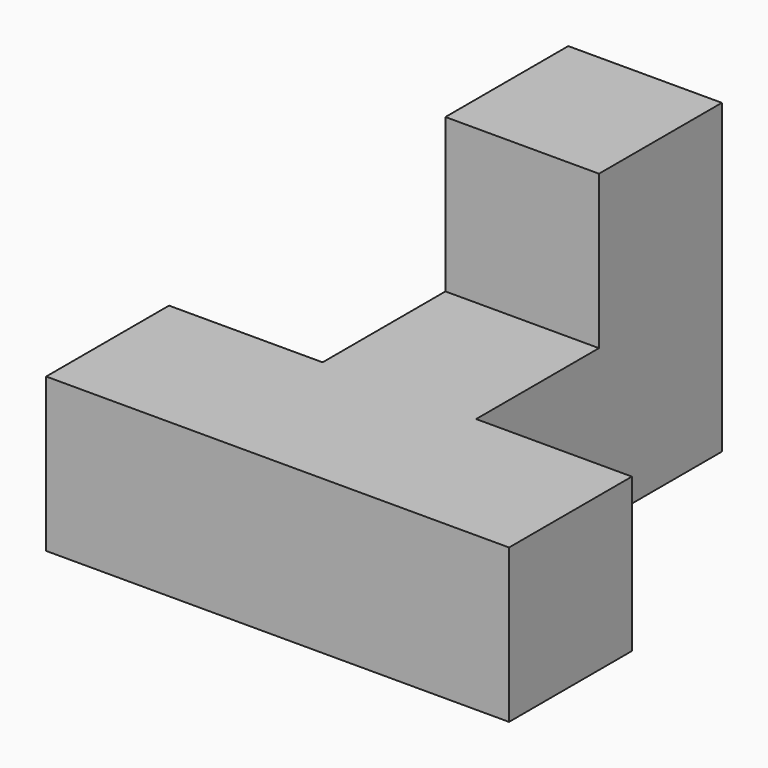
from build123d import *

# Parameters (mm, degrees)
F0_W     = 19.05
F0_H     = 19.05
F0_W_2   = 19.322142
F1_DEPTH = 19.05
F2_DEPTH = 38.1


with BuildPart() as f1:
    # F0 (on Top) → F1 (new body)
    with BuildSketch(Plane.XY):
        with Locations((-9.525, 9.525)):
            Rectangle(F0_W, F0_H)
        with Locations((9.661071, 9.525)):
            Rectangle(F0_W_2, F0_H)
        with Locations((-28.575, 9.525)):
            Rectangle(F0_W, F0_H)
        with Locations((-9.525, 28.575)):
            Rectangle(F0_W, F0_H)
        with Locations((-9.525, 47.625)):
            Rectangle(F0_W, F0_H)
    extrude(amount=F1_DEPTH)

    # F0 (on Top) → F2 (join)
    with BuildSketch(Plane.XY):
        with Locations((-9.525, 47.625)):
            Rectangle(F0_W, F0_H)
    extrude(amount=F2_DEPTH)


solid = f1.part
